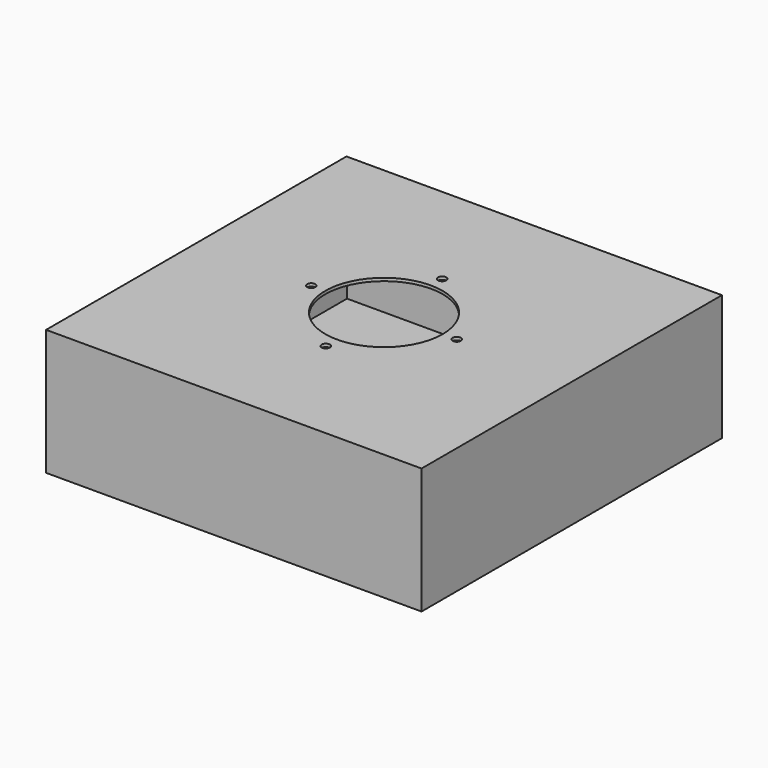
from build123d import *

# Parameters (mm, degrees)
F0_W      = 203.2
F0_H      = 203.2
F1_DEPTH  = 1.6002
F2_R      = 31.75
F2_R_2    = 2.2479
F3_DEPTH  = 1.6002
F5_DEPTH  = 9.525
F7_DEPTH  = 1.6002
F9_W      = 203.2
F9_H      = 203.2
F9_W_2    = 200.152
F9_H_2    = 200.152
F10_DEPTH = 65.024
F11_W     = 203.2
F11_H     = 203.2
F11_R     = 58.42
F12_DEPTH = 1.524
F13_R     = 59.944
F13_R_2   = 58.42
F14_DEPTH = 16.51


with BuildPart() as f1:
    # F0 (on Top) → F1 (new body)
    with BuildSketch(Plane.XY):
        Rectangle(F0_W, F0_H)
    extrude(amount=-F1_DEPTH)

    # F2 (on face) → F3 (cut, through all)
    with BuildSketch(Plane.XY):
        Circle(F2_R)
        with Locations((0, 39.37)):
            Circle(F2_R_2)
        with Locations((-39.37, 0)):
            Circle(F2_R_2)
        with Locations((0, -39.37)):
            Circle(F2_R_2)
        with Locations((39.37, 0)):
            Circle(F2_R_2)
    extrude(amount=-F3_DEPTH, mode=Mode.SUBTRACT)

    # F4 (on Front) → F5 (join, symmetric)
    with BuildSketch(Plane.XZ):
        Polygon((57.15, -1.6002), (44.45, -1.6002), (44.45, -3.2004), (55.5498, -3.2004), (55.5498, -65.1002), (57.15, -65.1002), align=None)
        Polygon((-57.15, -1.6002), (-57.15, -65.1002), (-55.5498, -65.1002), (-55.5498, -3.2004), (-44.45, -3.2004), (-44.45, -1.6002), align=None)
    extrude(amount=F5_DEPTH, both=True)

    # F6 (on face) → F7 (join)
    with BuildSketch(Plane(origin=(0, 0, -65.1002), x_dir=(1, 0, 0), z_dir=(0, 0, -1))):
        Polygon((47.9298, -9.525), (57.15, -9.525), (57.15, 9.525), (47.9298, 9.525), (47.9298, 4.445), (51.7398, 4.445), (51.7398, 6.0452), (49.53, 6.0452), (49.53, 7.9248), (53.9496, 7.9248), (53.9496, 0), (53.9496, -7.9248), (49.53, -7.9248), (49.53, -6.0452), (51.7398, -6.0452), (51.7398, -4.445), (47.9298, -4.445), align=None)
    extrude(amount=F7_DEPTH)

    # F8: F1 across plane


with BuildPart() as f1_1:
    add(f1.part)
    add(f1.part.mirror(Plane.YZ))

    # F9 (on face) → F10 (join)
    with BuildSketch(Plane(origin=(0, 0, -1.6002), x_dir=(1, 0, 0), z_dir=(0, 0, -1))):
        Rectangle(F9_W, F9_H)
        Rectangle(F9_W_2, F9_H_2, mode=Mode.SUBTRACT)
    extrude(amount=F10_DEPTH)

    # F11 (on face) → F12 (join)
    with BuildSketch(Plane(origin=(0, 0, -66.6242), x_dir=(1, 0, 0), z_dir=(0, 0, -1))):
        Rectangle(F11_W, F11_H)
        Circle(F11_R, mode=Mode.SUBTRACT)
    extrude(amount=F12_DEPTH)

    # F13 (on face) → F14 (join)
    with BuildSketch(Plane(origin=(0, 0, -68.1482), x_dir=(1, 0, 0), z_dir=(0, 0, -1))):
        Circle(F13_R)
        Circle(F13_R_2, mode=Mode.SUBTRACT)
    extrude(amount=F14_DEPTH)


solid = f1_1.part
